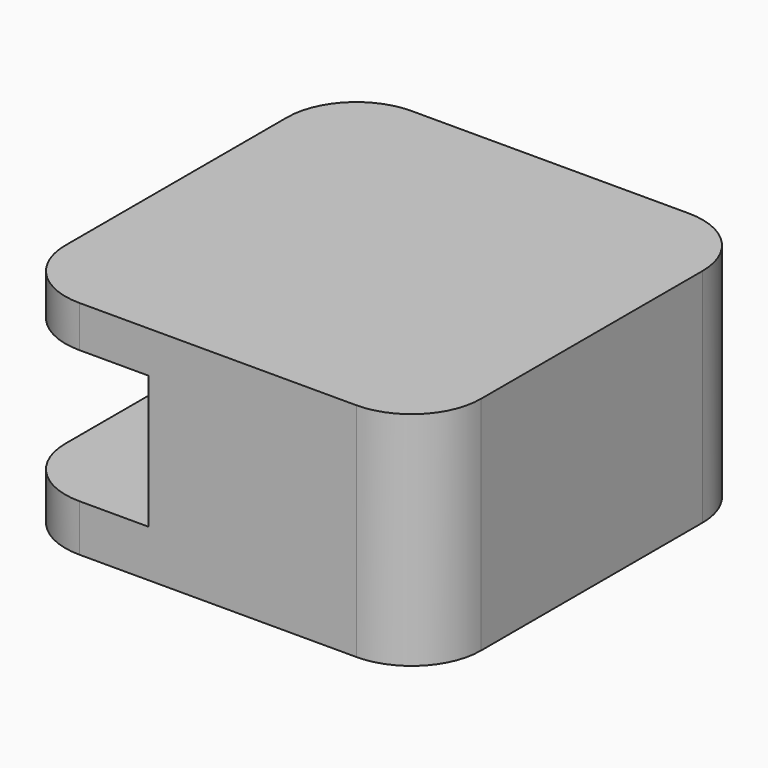
from build123d import *

# Parameters (mm, degrees)
F0_W     = 15
F0_H     = 15
F1_DEPTH = 8
F2_W     = 15
F2_H     = 4.8
F3_DEPTH = 5
F4_R     = 2.5
F5_R     = 2.5


with BuildPart() as f1:
    # F0 (on Top) → F1 (new body)
    with BuildSketch(Plane.XY):
        with Locations((-7.5, 0)):
            Rectangle(F0_W, F0_H)
    extrude(amount=F1_DEPTH)

    # F2 (on face) → F3 (cut)
    with BuildSketch(Plane(origin=(-15, 0, 0), x_dir=(0, -1, 0), z_dir=(-1, 0, 0))):
        with Locations((0, 4.1)):
            Rectangle(F2_W, F2_H)
    extrude(amount=-F3_DEPTH, mode=Mode.SUBTRACT)

    # F4
    f4_edges = [f1.edges().sort_by_distance(p)[0] for p in [
        (0, -7.5, 4),
        (0, 7.5, 4),
    ]]
    fillet(f4_edges, radius=F4_R)

    # F5
    f5_edges = [f1.edges().sort_by_distance(p)[0] for p in [
        (-15, -7.5, 0.85),
        (-15, -7.5, 7.25),
        (-15, 7.5, 0.85),
        (-15, 7.5, 7.25),
    ]]
    fillet(f5_edges, radius=F5_R)


solid = f1.part
